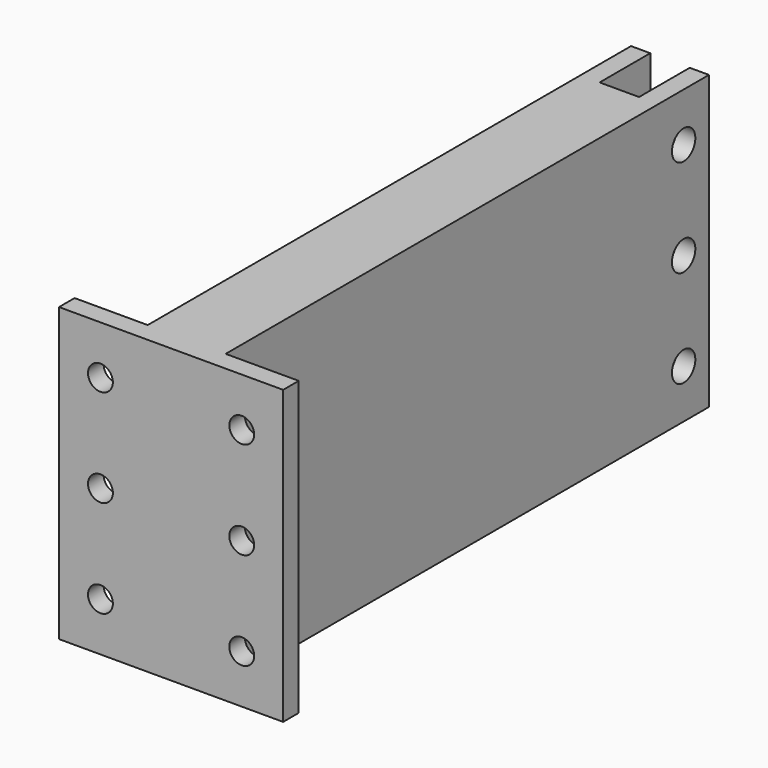
from build123d import *

# Parameters (mm, degrees)
PAD_DEPTH    = 60
SKETCH001_R  = 3
HOLE_DEPTH   = 25
SKETCH002_W  = 46
SKETCH002_H  = 60
SKETCH002_R  = 2.55
PAD001_DEPTH = 4


with BuildPart() as part:
    # Sketch → Pad (new body)
    with BuildSketch(Plane.XY):
        Polygon((-8, 0), (8, 0), (8, 128), (4.05, 128), (4.05, 115), (-4.05, 115), (-4.05, 128), (-8, 128), align=None)
    extrude(amount=PAD_DEPTH)

    # Sketch001 (on Face8 of Pad) → Hole (cut)
    with BuildSketch(Plane(origin=(-8, 0, 0), x_dir=(0, -1, 0), z_dir=(-1, 0, 0))):
        with Locations((-121.5, 30)):
            Circle(SKETCH001_R)
        with Locations((-121.5, 10)):
            Circle(SKETCH001_R)
        with Locations((-121.5, 50)):
            Circle(SKETCH001_R)
    extrude(amount=-HOLE_DEPTH, mode=Mode.SUBTRACT)

    # Sketch002 (on Face1 of Hole) → Pad001 (join)
    with BuildSketch(Plane.XZ):
        with Locations((0, 30)):
            Rectangle(SKETCH002_W, SKETCH002_H)
        with Locations((-14.5, 30)):
            Circle(SKETCH002_R, mode=Mode.SUBTRACT)
        with Locations((-14.5, 10)):
            Circle(SKETCH002_R, mode=Mode.SUBTRACT)
        with Locations((14.5, 30)):
            Circle(SKETCH002_R, mode=Mode.SUBTRACT)
        with Locations((14.5, 10)):
            Circle(SKETCH002_R, mode=Mode.SUBTRACT)
        with Locations((-14.5, 50)):
            Circle(SKETCH002_R, mode=Mode.SUBTRACT)
        with Locations((14.5, 50)):
            Circle(SKETCH002_R, mode=Mode.SUBTRACT)
    extrude(amount=-PAD001_DEPTH)


solid = part.part
